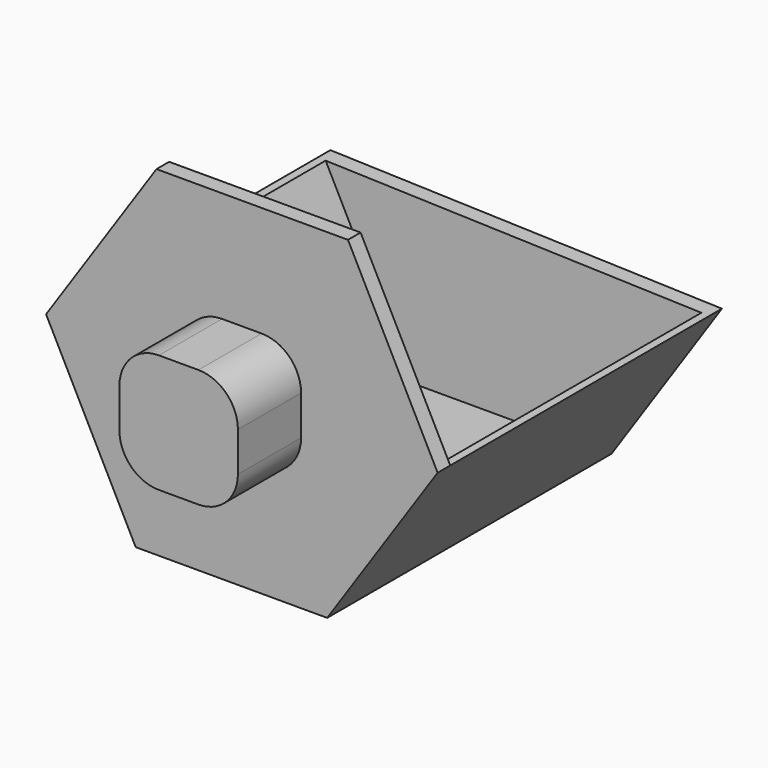
from build123d import *

# Parameters (mm, degrees)
F1_DEPTH = 90
F3_DEPTH = 86
F5_DEPTH = 86
F7_DEPTH = 4
F9_DEPTH = 20
F10_R    = 10


with BuildPart() as f1:
    # F0 (on Front) → F1 (new body)
    with BuildSketch(Plane.XZ):
        Polygon((-22.699524987, 44.5503262094), (0, 0), (48.49, 0), (76.4529137011, 41.4496737906), (53.7533887141, 86), (5.2633887141, 86), align=None)
    extrude(amount=-F1_DEPTH)

    # F2 (on face) → F3 (cut)
    with BuildSketch(Plane(origin=(0, 90, 0), x_dir=(-1, 0, 0), z_dir=(0, 1, 0))):
        Polygon((-53.7533887141, 86), (-76.4529137011, 41.4496737906), (22.699524987, 44.5503262094), (-5.2633887141, 86), align=None)
    extrude(amount=-F3_DEPTH, mode=Mode.SUBTRACT)

    # F4 (on face) → F5 (cut)
    with BuildSketch(Plane(origin=(0, 90, 0), x_dir=(-1, 0, 0), z_dir=(0, 1, 0))):
        Polygon((-74.4529137011, 41.5122169304), (-47.7970534464, 2), (-0.9490817796, 2), (20.699524987, 44.4877830696), align=None)
    extrude(amount=-F5_DEPTH, mode=Mode.SUBTRACT)

    # F6 (on face) → F7 (join)
    with BuildSketch(Plane(origin=(0, 90, 0), x_dir=(-1, 0, 0), z_dir=(0, 1, 0))):
        Polygon((22.699524987, 44.5503262094), (-76.4529137011, 41.4496737906), (-48.49, 0), (0, 0), align=None)
    extrude(amount=-F7_DEPTH)

    # F8 (on face) → F9 (join)
    with BuildSketch(Plane.XZ):
        with BuildLine():
            Line((41.8766943571, 28), (41.8766943571, 43))
            ThreePointArc((41.8766943571, 43), (37.4832960749, 32.3933982822), (26.8766943571, 28))
            Line((26.8766943571, 28), (41.8766943571, 28))
        make_face()
        with BuildLine():
            ThreePointArc((26.8766943571, 58), (37.4832960749, 53.6066017178), (41.8766943571, 43))
            Line((41.8766943571, 43), (41.8766943571, 58))
            Line((41.8766943571, 58), (26.8766943571, 58))
        make_face()
        with BuildLine():
            ThreePointArc((11.8766943571, 43), (16.2700926393, 53.6066017178), (26.8766943571, 58))
            Line((26.8766943571, 58), (11.8766943571, 58))
            Line((11.8766943571, 58), (11.8766943571, 43))
        make_face()
        with BuildLine():
            ThreePointArc((26.8766943571, 28), (37.4832960749, 32.3933982822), (41.8766943571, 43))
            ThreePointArc((41.8766943571, 43), (37.4832960749, 53.6066017178), (26.8766943571, 58))
            ThreePointArc((26.8766943571, 58), (16.2700926393, 53.6066017178), (11.8766943571, 43))
            ThreePointArc((11.8766943571, 43), (16.2700926393, 32.3933982822), (26.8766943571, 28))
        make_face()
        with BuildLine():
            Line((11.8766943571, 28), (26.8766943571, 28))
            ThreePointArc((26.8766943571, 28), (16.2700926393, 32.3933982822), (11.8766943571, 43))
            Line((11.8766943571, 43), (11.8766943571, 28))
        make_face()
    extrude(amount=F9_DEPTH)

    # F10
    f10_edges = [f1.edges().sort_by_distance(p)[0] for p in [
        (11.876694, -10, 58),
        (41.876694, -10, 58),
        (11.876694, -10, 28),
        (41.876694, -10, 28),
    ]]
    fillet(f10_edges, radius=F10_R)


solid = f1.part
